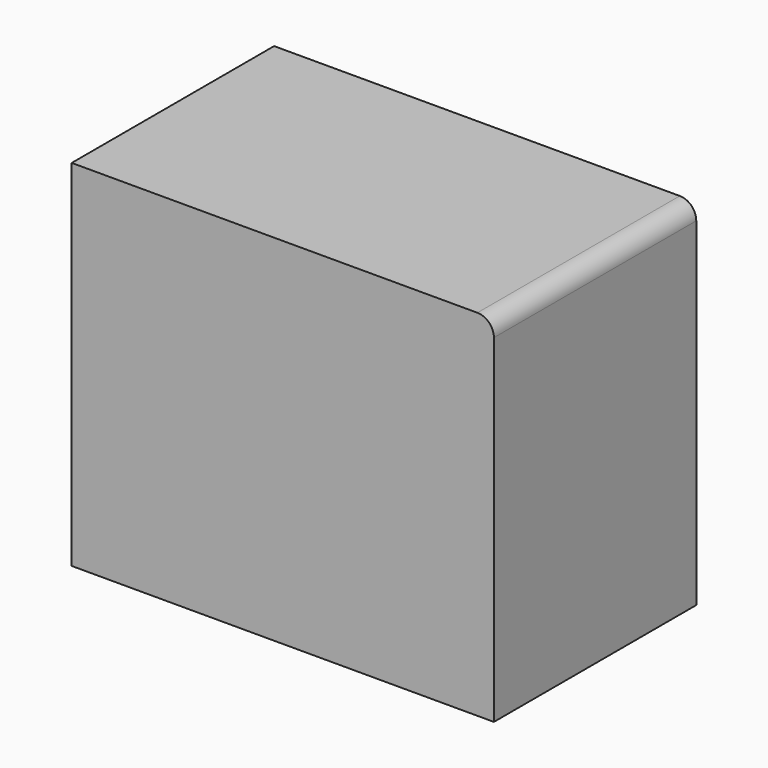
from build123d import *

# Parameters (mm, degrees)
F0_W     = 76.76471
F0_H     = 64.522062
F1_DEPTH = 46
F2_R     = 3


with BuildPart() as f1:
    # F0 (on Front) → F1 (new body)
    with BuildSketch(Plane.XZ):
        with Locations((8.685663, 0.248162)):
            Rectangle(F0_W, F0_H)
        with Locations((8.685663, 0.248162)):
            Rectangle(F0_W, F0_H)
    extrude(amount=F1_DEPTH)

    # F2
    f2_edges = [f1.edges().sort_by_distance(p)[0] for p in [
        (47.068018, -23, 32.509193),
    ]]
    fillet(f2_edges, radius=F2_R)


solid = f1.part
